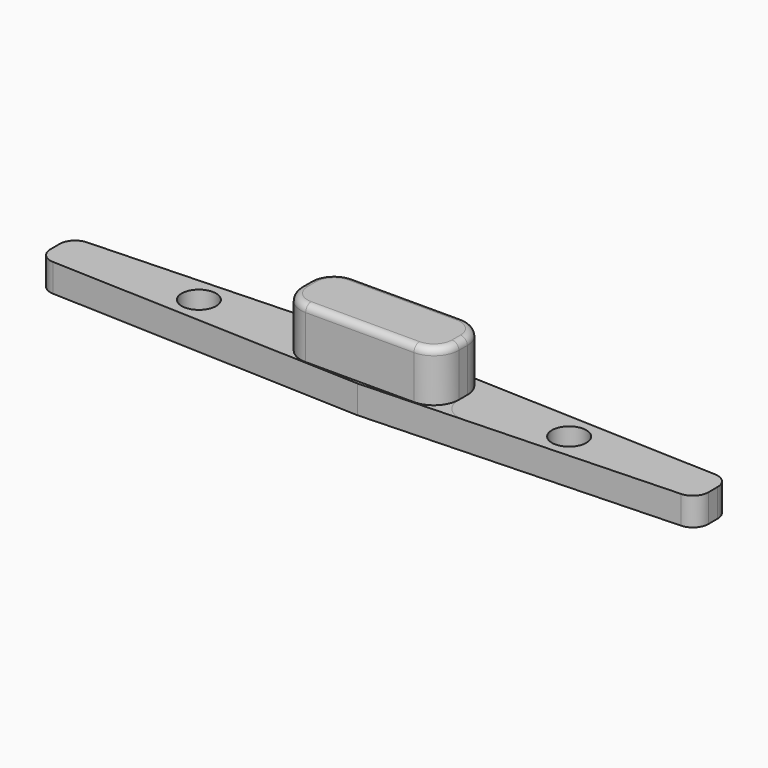
from build123d import *

# Parameters (mm, degrees)
F0_R     = 3.75
F1_DEPTH = 6.1
F2_W     = 34.5066441072
F2_H     = 13.1774456962
F3_DEPTH = 11
F4_R     = 5.4411545269
F5_R     = 1.5025340948
F6_R     = 2
F7_DEPTH = 4
F8_R     = 3.3571489319


with BuildPart() as f1:
    # F0 (on Top) → F1 (new body)
    with BuildSketch(Plane.XY):
        Polygon((71.75, 4.5), (0, 7.25), (-71.75, 4.5), (-71.75, -4.5), (0, -7.25), (71.75, -4.5), align=None)
        with Locations((-40.375, 0)):
            Circle(F0_R, mode=Mode.SUBTRACT)
        with Locations((40.375, 0)):
            Circle(F0_R, mode=Mode.SUBTRACT)
    extrude(amount=F1_DEPTH)

    # F2 (on face) → F3 (join)
    with BuildSketch(Plane.XY.offset(6.1)):
        Rectangle(F2_W, F2_H)
    extrude(amount=F3_DEPTH)

    # F4
    f4_edges = [f1.edges().sort_by_distance(p)[0] for p in [
        (-17.253322, -6.588723, 11.6),
        (-17.253322, 6.588723, 11.6),
        (17.253322, -6.588723, 11.6),
        (17.253322, 6.588723, 11.6),
    ]]
    fillet(f4_edges, radius=F4_R)

    # F5
    f5_edges = [f1.edges().sort_by_distance(p)[0] for p in [
        (0, 6.588723, 17.1),
        (15.659645, 4.995046, 17.1),
        (17.253322, 0, 17.1),
        (15.659645, -4.995046, 17.1),
        (0, -6.588723, 17.1),
        (-15.659645, -4.995046, 17.1),
        (-17.253322, 0, 17.1),
        (-15.659645, 4.995046, 17.1),
    ]]
    fillet(f5_edges, radius=F5_R)

    # F6 (on face) → F7 (cut)
    with BuildSketch(Plane(origin=(0, 0, 0), x_dir=(1, 0, 0), z_dir=(0, 0, -1))):
        with Locations((-63.125, 0)):
            Circle(F6_R)
        with Locations((63.125, 0)):
            Circle(F6_R)
    extrude(amount=-F7_DEPTH, mode=Mode.SUBTRACT)

    # F8
    f8_edges = [f1.edges().sort_by_distance(p)[0] for p in [
        (71.75, 4.5, 3.05),
        (71.75, -4.5, 3.05),
        (-71.75, 4.5, 3.05),
        (-71.75, -4.5, 3.05),
    ]]
    fillet(f8_edges, radius=F8_R)


solid = f1.part
